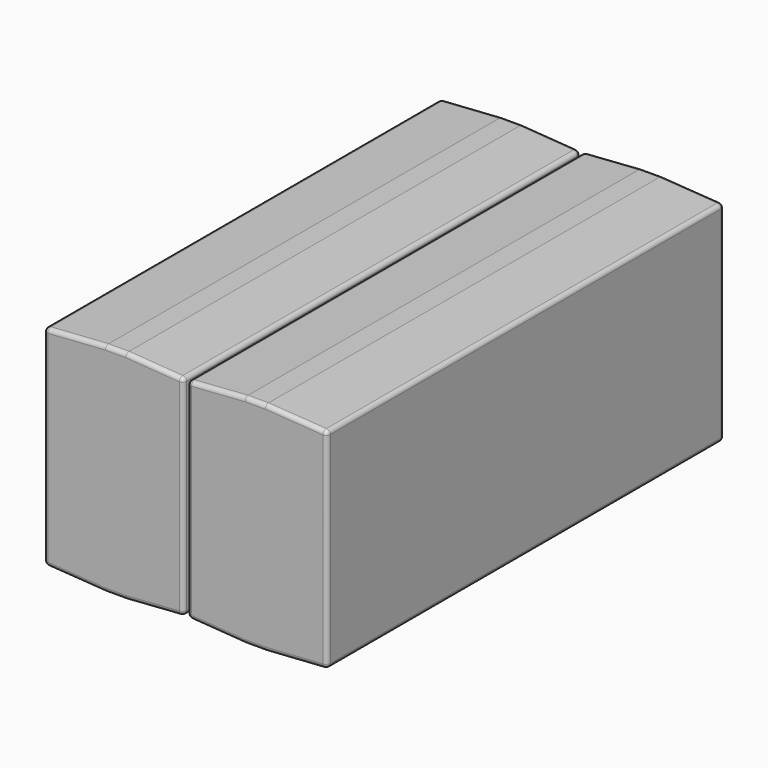
from build123d import *

# Parameters (mm, degrees)
F1_DEPTH = 121
F2_R     = 1


with BuildPart() as f1:
    # F0 (on Front) → F1 (new body)
    with BuildSketch(Plane.XZ):
        Polygon((-19.5, 53), (-34.5, 52), (-34.5, 1), (-19.5, 0), (-14.5, 0), (-0.5, 1), (-0.5, 52), (-14.5, 53), align=None)
    extrude(amount=-F1_DEPTH)

    # F2
    f2_edges = [f1.edges().sort_by_distance(p)[0] for p in [
        (-0.5, 60.5, 1),
        (-0.5, 60.5, 52),
        (-0.5, 0, 26.5),
        (-0.5, 121, 26.5),
        (-34.5, 60.5, 52),
        (-34.5, 60.5, 1),
        (-34.5, 0, 26.5),
        (-34.5, 121, 26.5),
        (-27, 0, 52.5),
        (-27, 0, 0.5),
        (-17, 0, 0),
        (-7.5, 0, 0.5),
        (-7.5, 0, 52.5),
        (-17, 0, 53),
        (-27, 121, 52.5),
        (-27, 121, 0.5),
        (-17, 121, 0),
        (-7.5, 121, 0.5),
        (-7.5, 121, 52.5),
        (-17, 121, 53),
    ]]
    fillet(f2_edges, radius=F2_R)


with BuildPart() as f3_1:
    # F3: instance of F1
    add(f1.part.mirror(Plane.YZ))


solid = Compound([f1.part, f3_1.part])
